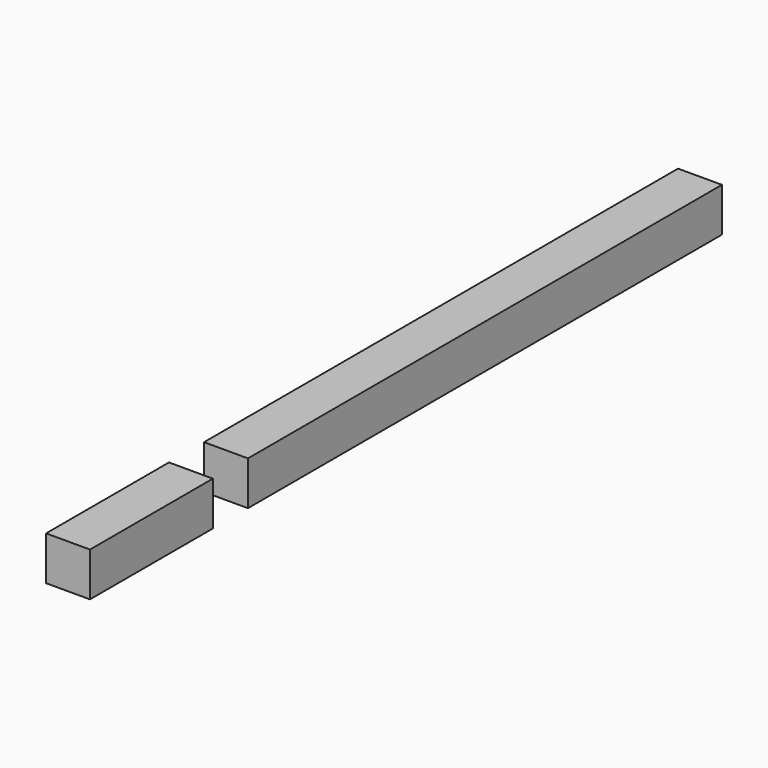
from build123d import *

# Parameters (mm, degrees)
F0_W     = 25.4
F0_H     = 457.2
F1_DEPTH = 25.4
F2_W     = 12.7
F2_H     = 25.4
F3_DEPTH = 25.4


with BuildPart() as f1:
    # F0 (on Top) → F1 (new body)
    with BuildSketch(Plane.XY):
        Rectangle(F0_W, F0_H)
    extrude(amount=F1_DEPTH)

    # F2 (on face) → F3 (cut)
    with BuildSketch(Plane.XY.offset(25.4)):
        with Locations((6.35, -127)):
            Rectangle(F2_W, F2_H)
        with Locations((-6.35, -127)):
            Rectangle(F2_W, F2_H)
    extrude(amount=-F3_DEPTH, mode=Mode.SUBTRACT)


solid = f1.part
